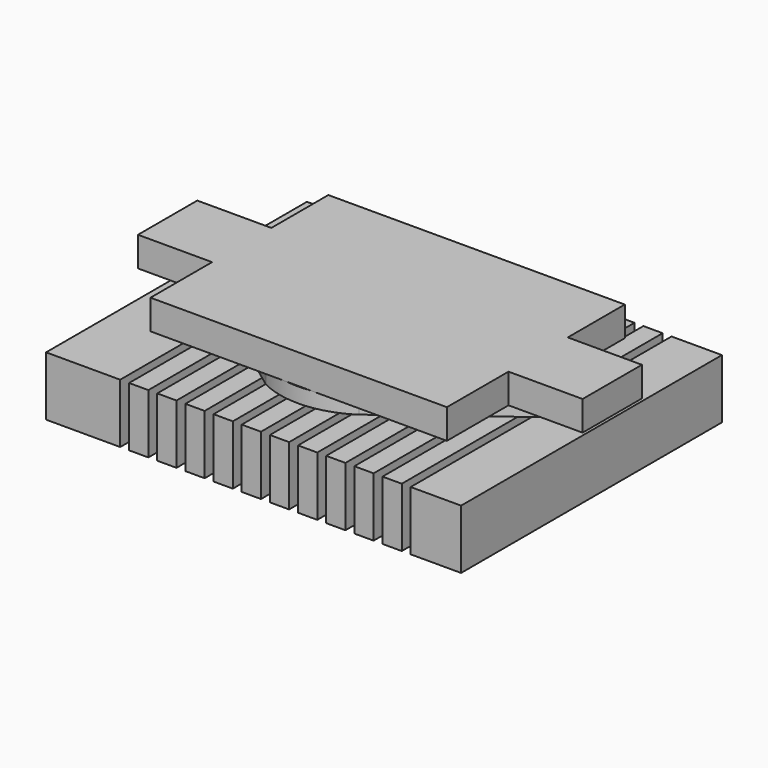
from build123d import *

# Parameters (mm, degrees)
SKETCH_W             = 28
SKETCH_H             = 22
PAD002_DEPTH         = 5
POCKET001_DEPTH      = 0.8
SKETCH002_W          = 0.6
SKETCH002_H          = 23
POCKET_DEPTH         = 4
LINEARPATTERN_COUNT  = 11
LINEARPATTERN_PITCH  = 1.9
POCKET002_DEPTH      = 3.5
SKETCH006_W          = 28
SKETCH006_H          = 22
POCKET005_DEPTH      = 1
POCKET005_DEPTH_BACK = 1
PAD_DEPTH            = 2


with BuildPart() as part:
    # Sketch → Pad002 (new body)
    with BuildSketch(Plane.XY):
        with Locations((15, 12)):
            Rectangle(SKETCH_W, SKETCH_H)
    extrude(amount=PAD002_DEPTH)

    # Sketch001 → Pocket001 (cut)
    with BuildSketch(Plane.XY):
        with BuildLine():
            ThreePointArc((17.967868, 19.714572), (14.962963, 20.499886), (11.967982, 19.677535))
            Line((11.967982, 19.677535), (4.036475, 13.531422))
            ThreePointArc((4.036475, 13.531422), (3.750333, 12.536475), (4, 11.531754))
            Line((4, 11.531754), (12.33, 4.876817))
            ThreePointArc((12.33, 4.876817), (15.374304, 4.261687), (18.318313, 5.25112))
            Line((18.318313, 5.25112), (26, 11.531754))
            ThreePointArc((26, 11.531754), (26.249667, 12.536475), (25.963525, 13.531422))
            Line((25.963525, 13.531422), (17.967868, 19.714572))
        make_face()
    extrude(amount=POCKET001_DEPTH, mode=Mode.SUBTRACT)

    # Sketch002 → Pocket (cut)
    with BuildSketch(Plane.XY):
        with Locations((6.3, 11.5)):
            Rectangle(SKETCH002_W, SKETCH002_H)
    pocket = extrude(amount=POCKET_DEPTH, mode=Mode.SUBTRACT)

    # LinearPattern: Pocket ×11
    with Locations(*[(i * LINEARPATTERN_PITCH, 0, 0) for i in range(1, LINEARPATTERN_COUNT)]):
        add(pocket, mode=Mode.SUBTRACT)

    # Sketch003 → Pocket002 (cut)
    with BuildSketch(Plane(origin=(0.5, 0, 4), x_dir=(0.707107, 0, -0.707107), z_dir=(0.707107, 0, 0.707107))):
        with BuildLine():
            ThreePointArc((17.966363, 19.215428), (14.961232, 19.999875), (11.966488, 19.17666))
            Line((11.966488, 19.17666), (4.036475, 13.531422))
            ThreePointArc((4.036475, 13.531422), (3.750333, 12.536475), (4, 11.531754))
            Line((4, 11.531754), (12.33, 5.376817))
            ThreePointArc((12.33, 5.376817), (15.374304, 4.761687), (18.318313, 5.75112))
            Line((18.318313, 5.75112), (26, 11.531754))
            ThreePointArc((26, 11.531754), (26.249667, 12.536475), (25.963525, 13.531422))
            Line((25.963525, 13.531422), (17.966363, 19.215428))
        make_face()
    extrude(amount=POCKET002_DEPTH, mode=Mode.SUBTRACT)

    # Sketch006 → Pocket005 (cut, two sides)
    with BuildSketch(Plane.XY.offset(5)) as pocket005_sk:
        with Locations((15, 12)):
            Rectangle(SKETCH006_W, SKETCH006_H)
        with BuildLine():
            ThreePointArc((17.966363, 19.215428), (14.961232, 19.999875), (11.966488, 19.17666))
            Line((11.966488, 19.17666), (4.036475, 13.531422))
            ThreePointArc((4.036475, 13.531422), (3.750333, 12.536475), (4, 11.531754))
            Line((4, 11.531754), (12.33, 5.376817))
            ThreePointArc((12.33, 5.376817), (15.374304, 4.761687), (18.318313, 5.75112))
            Line((18.318313, 5.75112), (26, 11.531754))
            ThreePointArc((26, 11.531754), (26.249667, 12.536475), (25.963525, 13.531422))
            Line((25.963525, 13.531422), (17.966363, 19.215428))
        make_face(mode=Mode.SUBTRACT)
    extrude(amount=-POCKET005_DEPTH, mode=Mode.SUBTRACT)
    extrude(pocket005_sk.sketch, amount=POCKET005_DEPTH_BACK, mode=Mode.SUBTRACT)

    # Sketch004 → Pad (join)
    with BuildSketch(Plane.XY.offset(5)):
        Polygon((5, 19.805), (25, 19.805), (25, 15), (30, 15), (30, 10), (25, 10), (25, 4.805), (5, 4.805), (5, 10), (0, 10), (0, 15), (5, 15), align=None)
    extrude(amount=PAD_DEPTH)


solid = part.part
